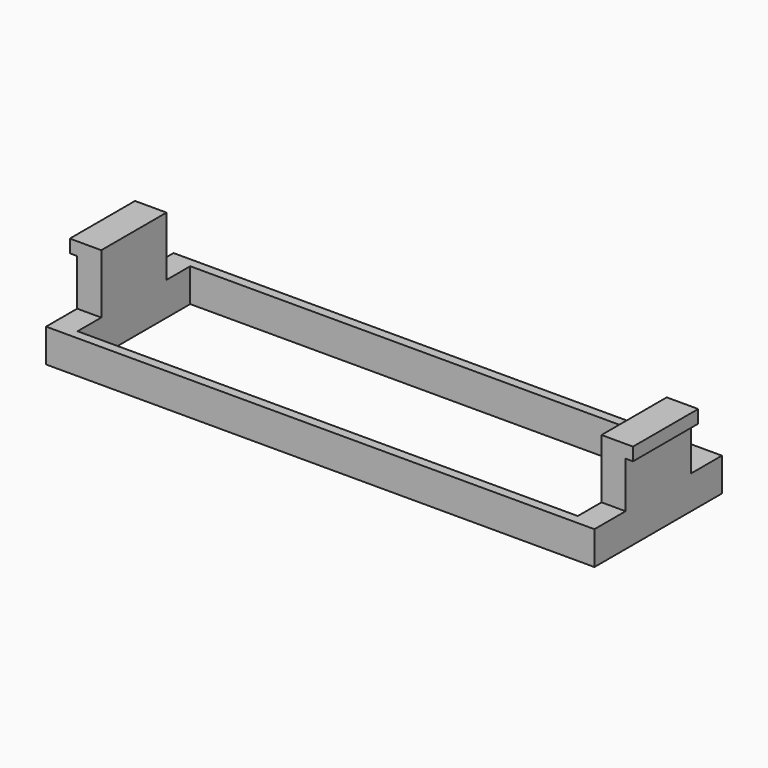
from build123d import *

# Parameters (mm, degrees)
F0_W     = 148
F0_H     = 43
F0_W_2   = 135
F0_H_2   = 38
F1_DEPTH = 9
F2_W     = 6.5
F2_H     = 22
F3_DEPTH = 16
F4_W     = 22
F4_H     = 3.5
F5_DEPTH = 2
F6_W     = 22
F6_H     = 3.5
F7_DEPTH = 2


with BuildPart() as f1:
    # F0 (on Top) → F1 (new body)
    with BuildSketch(Plane.XY):
        Rectangle(F0_W, F0_H)
        Rectangle(F0_W_2, F0_H_2, mode=Mode.SUBTRACT)
    extrude(amount=F1_DEPTH)

    # F2 (on face) → F3 (join)
    with BuildSketch(Plane.XY.offset(9)):
        with Locations((-70.75, 0)):
            Rectangle(F2_W, F2_H)
        with Locations((70.75, 0)):
            Rectangle(F2_W, F2_H)
    extrude(amount=F3_DEPTH)

    # F4 (on face) → F5 (join)
    with BuildSketch(Plane(origin=(-74, 0, 0), x_dir=(0, -1, 0), z_dir=(-1, 0, 0))):
        with Locations((0, 23.25)):
            Rectangle(F4_W, F4_H)
    extrude(amount=F5_DEPTH)

    # F6 (on face) → F7 (join)
    with BuildSketch(Plane.YZ.offset(74)):
        with Locations((0, 23.25)):
            Rectangle(F6_W, F6_H)
    extrude(amount=F7_DEPTH)


with BuildPart() as f8_1:
    # F8: copy of F1
    add(f1.part)


solid = f8_1.part
